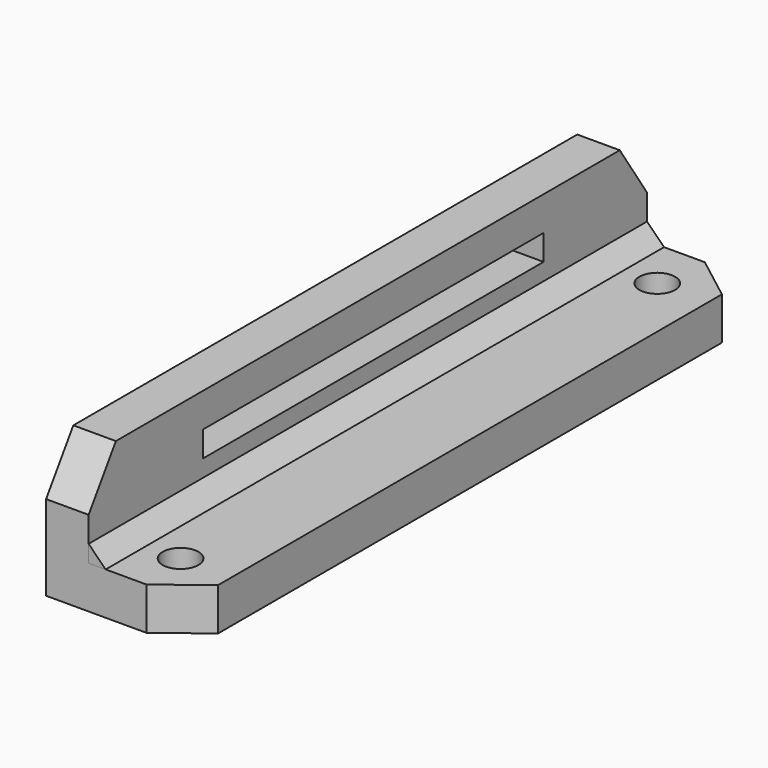
from build123d import *

# Parameters (mm, degrees)
SKETCH001_W  = 50
SKETCH001_H  = 3
PAD001_DEPTH = 5
SKETCH_R     = 2.1
PAD_DEPTH    = 5
PAD002_DEPTH = 82


with BuildPart() as pad001:
    # Sketch001 → Pad001 (new body)
    with BuildSketch(Plane.YZ.offset(-2)):
        Polygon((0, 0), (82, 0), (82, 10), (78, 16), (4, 16), (0, 10), align=None)
        with Locations((41.813425, 10.5)):
            Rectangle(SKETCH001_W, SKETCH001_H, mode=Mode.SUBTRACT)
    extrude(amount=PAD001_DEPTH)


with BuildPart() as fusion:
    # Sketch → Pad (new body)
    with BuildSketch(Plane.XY):
        Polygon((0, 82), (0, 0), (9.787406, 0), (14.999606, 4), (14.999606, 78), (9.787406, 82), align=None)
        with Locations((9, 6)):
            Circle(SKETCH_R, mode=Mode.SUBTRACT)
        with Locations((9, 76)):
            Circle(SKETCH_R, mode=Mode.SUBTRACT)
    extrude(amount=PAD_DEPTH)

    # Fusion: union Pad001
    add(pad001.part)


with BuildPart() as pad002:
    # Sketch002 → Pad002 (new body)
    with BuildSketch(Plane(origin=(3, 0, 5), x_dir=(1, 0, 0), z_dir=(0, -1, 0))):
        Polygon((0, 0), (0, 2), (2, 0), align=None)
    extrude(amount=-PAD002_DEPTH)


solid = Compound([fusion.part, pad002.part])
